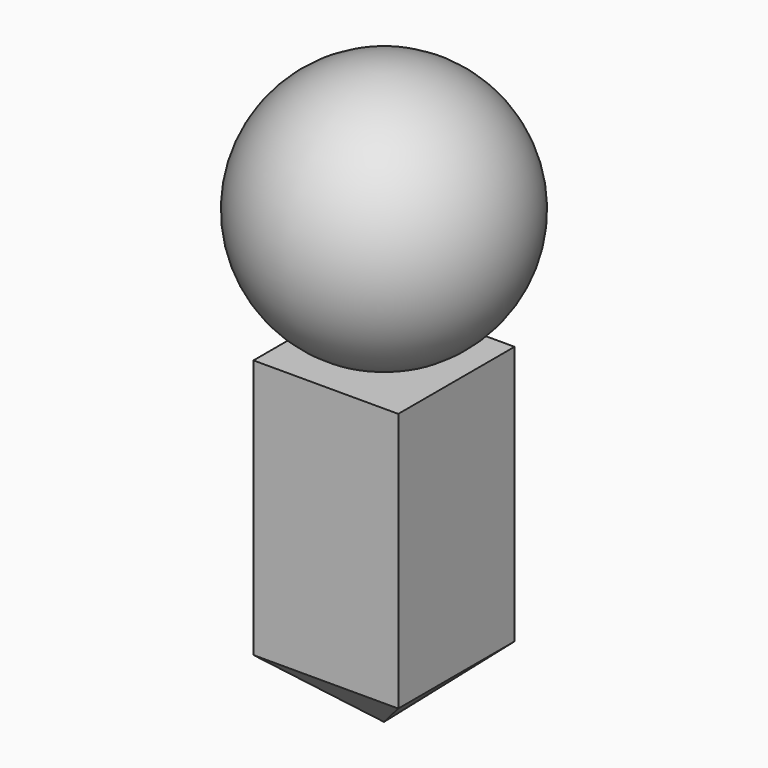
from build123d import *

# Parameters (mm, degrees)
F0_W      = 55.819296
F0_H      = 56.029066
F1_DEPTH  = 50
F1_FACE_W = 55.819296
F1_FACE_H = 56.029066
F5_R      = 0.01


with BuildPart() as f1:
    # F0 (on Top) → F1 (new body, symmetric)
    with BuildSketch(Plane.XY):
        Rectangle(F0_W, F0_H)
    extrude(amount=F1_DEPTH, both=True)

    # F2 (on Right) → F3 (revolve)
    with BuildSketch(Plane.YZ):
        with BuildLine():
            Line((0, 49.893861), (0, 148.123125))
            ThreePointArc((0, 148.123125), (-49.114632, 99.008493), (0, 49.893861))
        make_face()
    revolve(axis=Axis((0, 0, 99.008493), (0, 0, 1)))

    # F1_face (on face) → F6 section 0
    with BuildSketch(Plane(origin=(0, 0, -50), x_dir=(1, 0, 0), z_dir=(0, 0, -1))):
        Rectangle(F1_FACE_W, F1_FACE_H)
    # F5 (on offset) → F6 section 1
    with BuildSketch(Plane.XY.offset(-75)):
        Circle(F5_R)
    loft()


solid = f1.part
